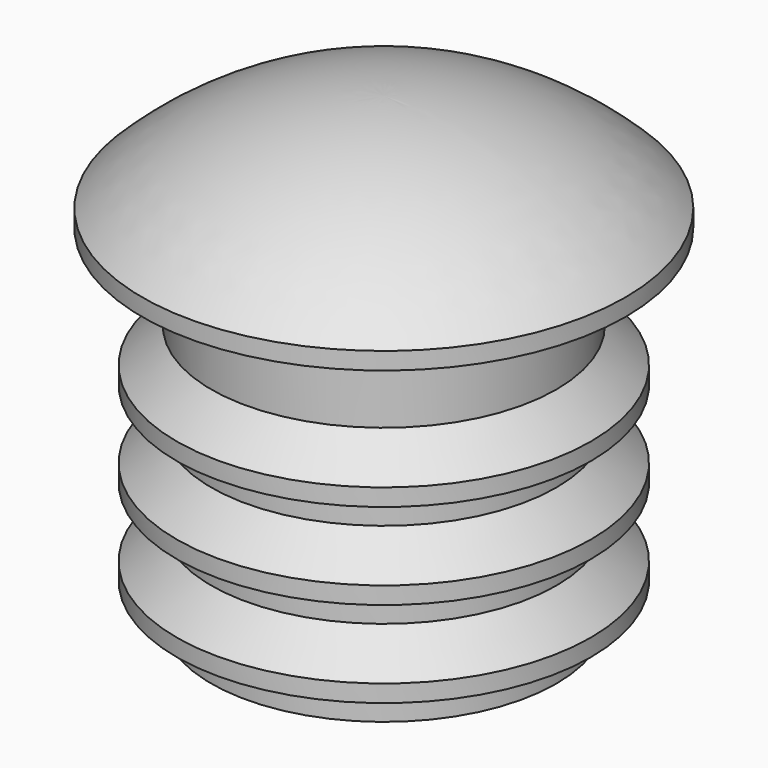
from build123d import *


with BuildPart() as f1:
    # F0 (on Front) → F1 (revolve)
    with BuildSketch(Plane.XZ):
        with BuildLine():
            Line((0, -9), (10, -9))
            Line((10, -9), (10, -7))
            Line((10, -7), (12, -7))
            Line((12, -7), (12, -6))
            Line((12, -6), (10, -4))
            Line((10, -4), (10, -2))
            Line((10, -2), (12, -2))
            Line((12, -2), (12, -1))
            Line((12, -1), (10, 1))
            Line((10, 1), (10, 3))
            Line((10, 3), (12, 3))
            Line((12, 3), (12, 4))
            Line((12, 4), (10, 6))
            Line((10, 6), (10, 11))
            Line((10, 11), (14, 11))
            Line((14, 11), (14, 12))
            ThreePointArc((14, 12), (7.561179, 16.232774), (0, 17.717143))
            Line((0, 17.717143), (0, -9))
        make_face()
    revolve(axis=Axis((0, 0, 4.358572), (0, 0, -1)))


solid = f1.part
